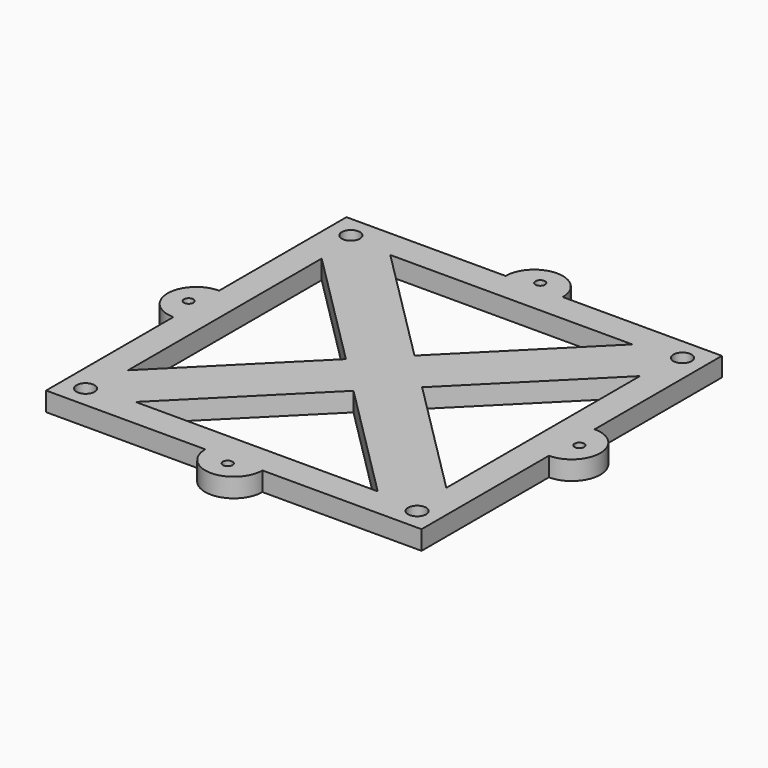
from build123d import *

# Parameters (mm, degrees)
F0_R     = 9.5
F0_R_2   = 5
F1_DEPTH = 20


with BuildPart() as f1:
    # F0 (on Top) → F1 (new body)
    with BuildSketch(Plane.XY):
        Polygon((-197, 127), (-167, 127), (-127, 167), (-127, 197), (-197, 197), align=None)
        with Locations((-174, 174)):
            Circle(F0_R, mode=Mode.SUBTRACT)
        Polygon((-167, -127), (-167, 127), (-197, 127), (-197, 30), (-197, -30), (-197, -127), align=None)
        Polygon((-127, 197), (-127, 167), (127, 167), (127, 197), (30, 197), (-30, 197), align=None)
        Polygon((-127, -167), (-167, -127), (-197, -127), (-197, -197), (-127, -197), align=None)
        with Locations((-174, -174)):
            Circle(F0_R, mode=Mode.SUBTRACT)
        Polygon((127, 197), (127, 167), (167, 127), (197, 127), (197, 197), align=None)
        with Locations((174, 174)):
            Circle(F0_R, mode=Mode.SUBTRACT)
        with BuildLine():
            Line((-197, -30), (-197, 30))
            ThreePointArc((-197, 30), (-227, 0), (-197, -30))
        make_face()
        with Locations((-205, 0)):
            Circle(F0_R_2, mode=Mode.SUBTRACT)
        Polygon((127, -167), (-127, -167), (-127, -197), (-30, -197), (30, -197), (127, -197), align=None)
        with BuildLine():
            ThreePointArc((30, 197), (0, 227), (-30, 197))
            Line((-30, 197), (30, 197))
        make_face()
        with Locations((0, 205)):
            Circle(F0_R_2, mode=Mode.SUBTRACT)
        Polygon((197, 127), (167, 127), (167, -127), (197, -127), (197, -30), (197, 30), align=None)
        Polygon((167, -127), (127, -167), (127, -197), (197, -197), (197, -127), align=None)
        with Locations((174, -174)):
            Circle(F0_R, mode=Mode.SUBTRACT)
        with BuildLine():
            Line((30, -197), (-30, -197))
            ThreePointArc((-30, -197), (0, -227), (30, -197))
        make_face()
        with Locations((0, -205)):
            Circle(F0_R_2, mode=Mode.SUBTRACT)
        with BuildLine():
            ThreePointArc((197, -30), (227, 0), (197, 30))
            Line((197, 30), (197, -30))
        make_face()
        with Locations((205, 0)):
            Circle(F0_R_2, mode=Mode.SUBTRACT)
        Polygon((40, 0), (0, -40), (127, -167), (167, -127), align=None)
        Polygon((-40, 0), (-167, -127), (-127, -167), (0, -40), align=None)
        Polygon((-127, 167), (-167, 127), (-40, 0), (0, 40), align=None)
        Polygon((0, 40), (-40, 0), (0, -40), (40, 0), align=None)
        Polygon((167, 127), (127, 167), (0, 40), (40, 0), align=None)
    extrude(amount=F1_DEPTH)


solid = f1.part
